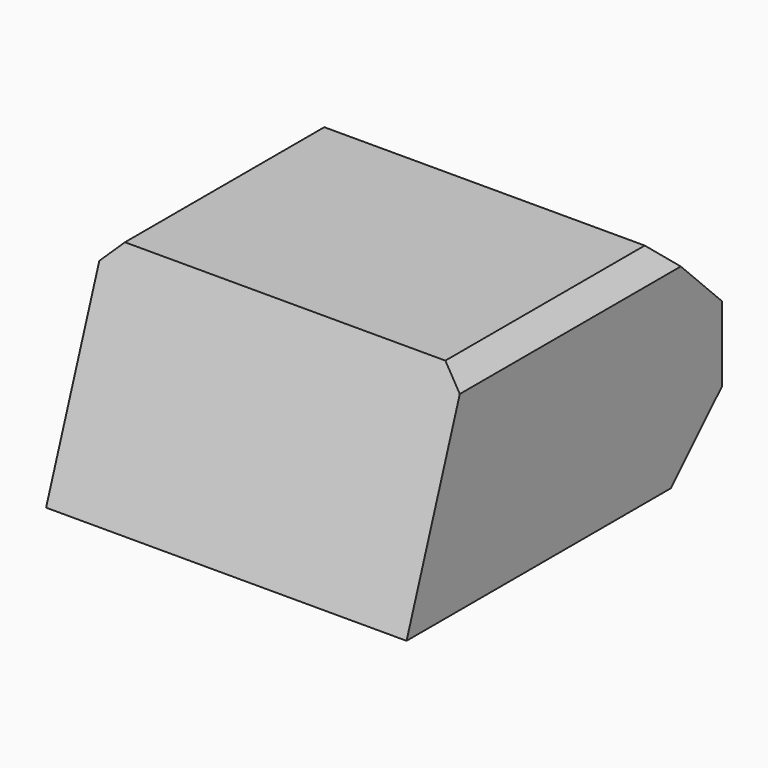
from build123d import *

# Parameters (mm, degrees)
F1_DEPTH = 1828.8
F3_SIZE  = 101.6
F4_SIZE  = 101.6


with BuildPart() as f1:
    # F0 (on Right) → F1 (new body)
    with BuildSketch(Plane.YZ):
        Polygon((-1327.777296, 758.974876), (-1700.789874, -307.825124), (-24.389874, -307.825124), (298.899346, 15.464096), (298.899346, 396.464096), (-63.611433, 758.974876), align=None)
    extrude(amount=F1_DEPTH)

    # F3
    f3_edges = [f1.edges().sort_by_distance(p)[0] for p in [
        (1828.8, -695.694365, 758.974876),
    ]]
    chamfer(f3_edges, length=F3_SIZE)

    # F4
    f4_edges = [f1.edges().sort_by_distance(p)[0] for p in [
        (0, -695.694365, 758.974876),
    ]]
    chamfer(f4_edges, length=F4_SIZE)


solid = f1.part
